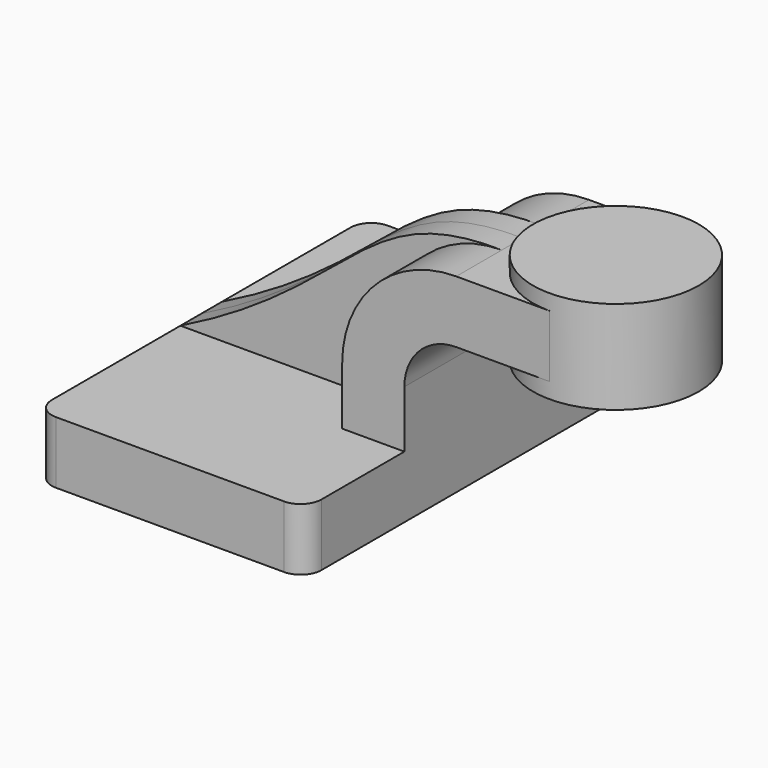
from build123d import *

# Parameters (mm, degrees)
F1_DEPTH = 63.5
F0_W     = 25.4
F0_H     = 19.05
F2_DEPTH = 25.4
F3_DEPTH = 7.9375
F5_R     = 6.35


with BuildPart() as f1:
    # F0 (on Front) → F1 (new body, symmetric)
    with BuildSketch(Plane.XZ):
        Polygon((41.275, 8.7261183647), (41.275, 9.525), (22.225, 9.525), (-41.275, 9.525), (-41.275, -9.525), (41.275, -9.525), align=None)
    extrude(amount=F1_DEPTH, both=True)

    # F0 (on Front) → F2 (join, symmetric)
    with BuildSketch(Plane.XZ):
        with BuildLine():
            Line((22.225, 9.525), (41.275, 9.525))
            Line((41.275, 9.525), (41.275, 27.0002))
            ThreePointArc((41.275, 27.0002), (45.9246798487, 38.2255201513), (57.15, 42.8752))
            Line((57.15, 42.8752), (60.325, 42.8752))
            Line((60.325, 42.8752), (60.325, 61.9252))
            Line((60.325, 61.9252), (57.15, 61.9252))
            ThreePointArc((57.15, 61.9252), (32.4542956671, 51.6959043329), (22.225, 27.0002))
            Line((22.225, 27.0002), (22.225, 9.525))
        make_face()
        with Locations((73.025, 52.4002)):
            Rectangle(F0_W, F0_H)
    extrude(amount=F2_DEPTH, both=True)

    # F0 (on Front) → F3 (join, symmetric)
    with BuildSketch(Plane.XZ):
        with BuildLine():
            Line((-41.275, 9.525), (22.225, 9.525))
            Line((22.225, 9.525), (22.225, 27.0002))
            ThreePointArc((22.225, 27.0002), (32.4542956671, 51.6959043329), (57.15, 61.9252))
            add(Edge.make_bspline(
                [(-41.275, 9.525), (12.6994326711, 36.1836515367), (13.9212344627, 62.6314580441), (57.15, 61.9252)],
                knots=[0, 0, 0, 0, 111.5045361635, 111.5045361635, 111.5045361635, 111.5045361635], degree=3))
        make_face()
    extrude(amount=F3_DEPTH, both=True)

    # F0 (on Front) → F4 (revolve)
    with BuildSketch(Plane.XZ):
        Polygon((85.725, 61.9252), (85.725, 42.8752), (85.725, 38.1), (111.125, 38.1), (111.125, 66.675), (85.725, 66.675), align=None)
    revolve(axis=Axis((85.725, 0, 52.3875), (0, 0, -1)))

    # F5
    f5_edges = [f1.edges().sort_by_distance(p)[0] for p in [
        (41.275, -63.5, 0),
        (-41.275, -63.5, 0),
        (-41.275, 63.5, 0),
        (41.275, 63.5, 0),
    ]]
    fillet(f5_edges, radius=F5_R)


solid = f1.part
